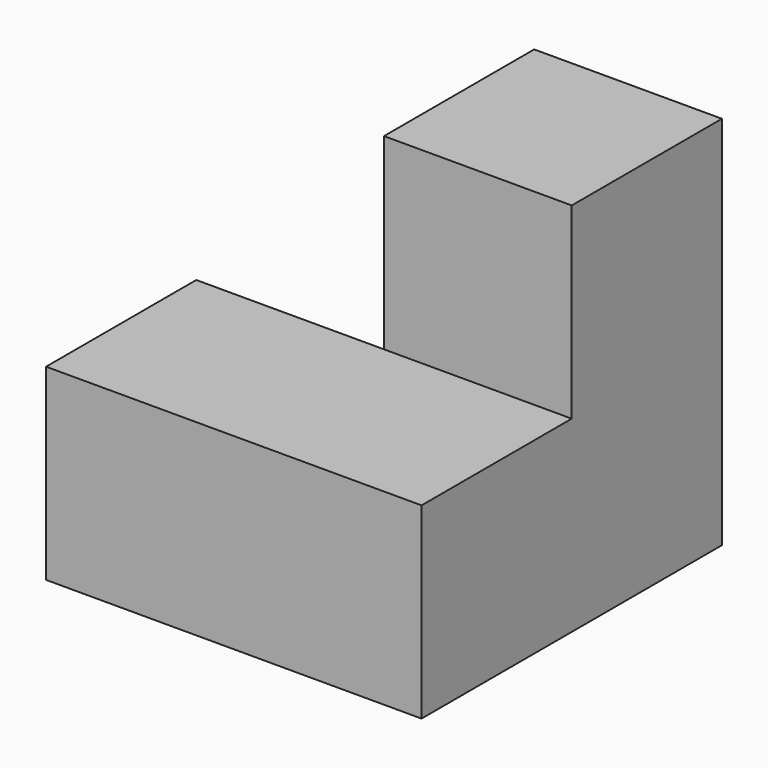
from build123d import *

# Parameters (mm, degrees)
F0_W     = 38.1
F0_H     = 19.05
F1_DEPTH = 19.05
F2_W     = 19.05
F2_H     = 19.05
F3_DEPTH = 19.05
F4_W     = 19.05
F4_H     = 19.05
F5_DEPTH = 19.05


with BuildPart() as f1:
    # F0 (on Front) → F1 (new body)
    with BuildSketch(Plane.XZ):
        with Locations((-5.3340007991, 1.1429999709)):
            Rectangle(F0_W, F0_H)
    extrude(amount=F1_DEPTH)

    # F2 (on face) → F3 (join)
    with BuildSketch(Plane.XY.offset(10.6679999709)):
        with Locations((4.1909992009, 9.525)):
            Rectangle(F2_W, F2_H)
    extrude(amount=-F3_DEPTH)

    # F4 (on face) → F5 (join)
    with BuildSketch(Plane.XY.offset(10.6679999709)):
        with Locations((4.1909992009, 9.525)):
            Rectangle(F4_W, F4_H)
    extrude(amount=F5_DEPTH)


solid = f1.part
